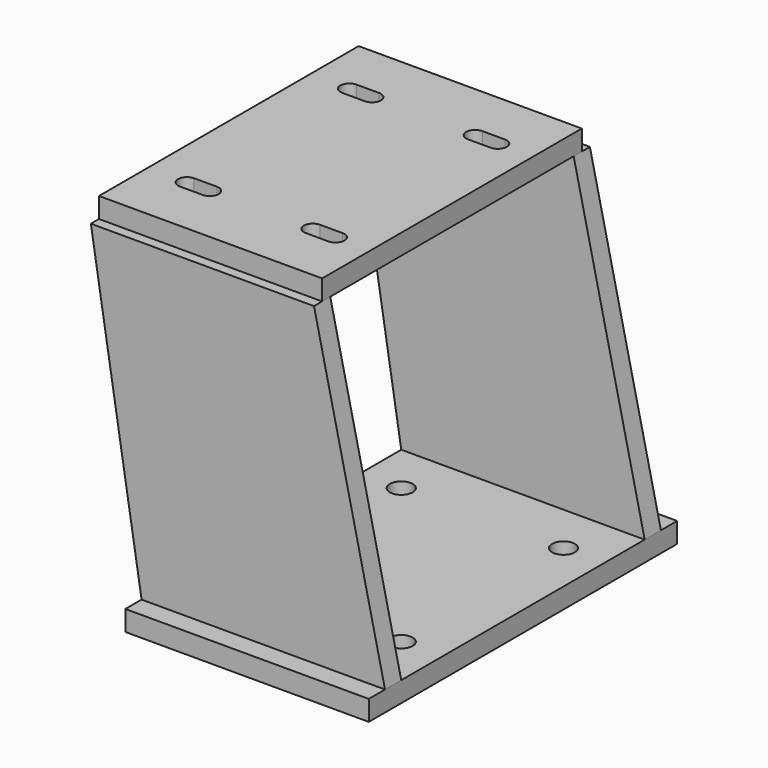
from build123d import *

# Parameters (mm, degrees)
F0_W     = 152.4
F0_H     = 241.3
F0_R     = 7.14375
F1_DEPTH = 12.7
F3_W     = 139.7
F3_H     = 203.2
F4_DEPTH = 12.7
F7_DEPTH = 12.7


with BuildPart() as f1:
    # F0 (on Top) → F1 (new body)
    with BuildSketch(Plane.XY):
        Rectangle(F0_W, F0_H)
        with Locations((-50.8, -63.5)):
            Circle(F0_R, mode=Mode.SUBTRACT)
        with Locations((50.8, -63.5)):
            Circle(F0_R, mode=Mode.SUBTRACT)
        with Locations((-50.8, 63.5)):
            Circle(F0_R, mode=Mode.SUBTRACT)
        with Locations((50.8, 63.5)):
            Circle(F0_R, mode=Mode.SUBTRACT)
    extrude(amount=F1_DEPTH)



with BuildPart() as f4:
    # F3 (on offset) → F4 (new body)
    with BuildSketch(Plane.XY.offset(222.25)):
        with Locations((-38.1, 0)):
            Rectangle(F3_W, F3_H)
        with BuildLine():
            ThreePointArc((-83.312, -69.088), (-88.9, -63.5), (-83.312, -57.912))
            Line((-83.312, -57.912), (-69.088, -57.912))
            ThreePointArc((-69.088, -57.912), (-63.5, -63.5), (-69.088, -69.088))
            Line((-69.088, -69.088), (-83.312, -69.088))
        make_face(mode=Mode.SUBTRACT)
        with BuildLine():
            ThreePointArc((-4.5457187648, -69.088), (-10.1337187648, -63.5), (-4.5457187648, -57.912))
            Line((-4.5457187648, -57.912), (9.6782812352, -57.912))
            ThreePointArc((9.6782812352, -57.912), (15.2662812352, -63.5), (9.6782812352, -69.088))
            Line((9.6782812352, -69.088), (-4.5457187648, -69.088))
        make_face(mode=Mode.SUBTRACT)
        with BuildLine():
            Line((-69.088, 57.912), (-83.312, 57.912))
            ThreePointArc((-83.312, 57.912), (-88.9, 63.5), (-83.312, 69.088))
            Line((-83.312, 69.088), (-69.088, 69.088))
            ThreePointArc((-69.088, 69.088), (-63.5, 63.5), (-69.088, 57.912))
        make_face(mode=Mode.SUBTRACT)
        with BuildLine():
            Line((9.6782812352, 57.912), (-4.5457187648, 57.912))
            ThreePointArc((-4.5457187648, 57.912), (-10.1337187648, 63.5), (-4.5457187648, 69.088))
            Line((-4.5457187648, 69.088), (9.6782812352, 69.088))
            ThreePointArc((9.6782812352, 69.088), (15.2662812352, 63.5), (9.6782812352, 57.912))
        make_face(mode=Mode.SUBTRACT)
    extrude(amount=-F4_DEPTH)


with BuildPart() as f1_1:
    add(f1.part)

    add(f4.part)  # F7 merges F4
    # F6 (on offset) → F7 (join)
    with BuildSketch(Plane.XZ.offset(95.25)):
        Polygon((31.75, 209.55), (-107.95, 209.55), (-76.2, 12.7), (76.2, 12.7), align=None)
    extrude(amount=F7_DEPTH)

    # F8: F1 across plane


with BuildPart() as f1_2:
    add(f1_1.part)
    add(f1_1.part.mirror(Plane.XZ))


solid = f1_2.part
